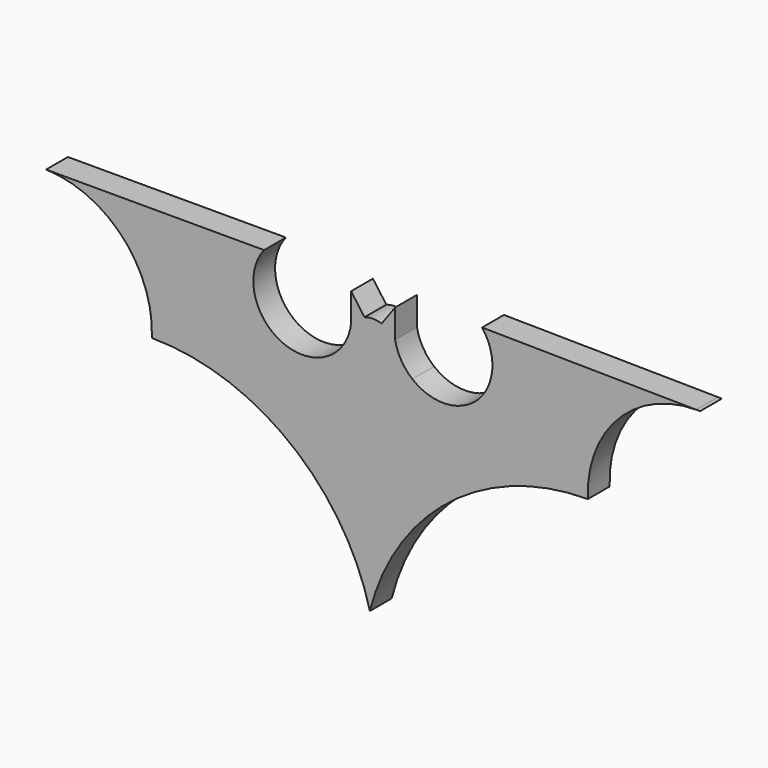
from build123d import *

# Parameters (mm, degrees)
F1_DEPTH = 6.35


with BuildPart() as f1:
    # F0 (on Front) → F1 (new body)
    with BuildSketch(Plane.XZ):
        with BuildLine():
            ThreePointArc((69.594858, 12.156528), (69.143513, 12.166349), (68.692064, 12.168146))
            Line((68.692064, 12.168146), (69.594858, 12.156528))
        make_face()
        with BuildLine():
            Line((-32.000936, 12.168452), (-82.800936, 12.168452))
            ThreePointArc((-82.800936, 12.168452), (-64.915471, 4.059617), (-58.157408, -14.378704))
            ThreePointArc((-58.157408, -14.378704), (-25.988306, -25.409758), (-7.357813, -53.860419))
            ThreePointArc((-7.357813, -53.860419), (11.273169, -25.409729), (43.442592, -14.378704))
            ThreePointArc((43.442592, -14.378704), (50.412065, 4.273605), (68.692064, 12.168146))
            Line((68.692064, 12.168146), (18.799064, 12.810207))
            ThreePointArc((18.799064, 12.810207), (17.746822, -2.370825), (2.544624, -3.052088))
            Line((2.544624, -3.052088), (-14.989253, -3.052088))
            ThreePointArc((-14.989253, -3.052088), (-30.705757, -3.501027), (-32.000936, 12.168452))
        make_face()
        with BuildLine():
            ThreePointArc((-11.728119, 3.721245), (-12.785904, 0.058803), (-14.989253, -3.052088))
            Line((-14.989253, -3.052088), (2.544624, -3.052088))
            ThreePointArc((2.544624, -3.052088), (-0.066364, -0.022448), (-1.473753, 3.721245))
            Line((-1.473753, 3.721245), (-11.728119, 3.721245))
        make_face()
        with BuildLine():
            ThreePointArc((-8.600348, 6.004528), (-10.342651, 5.107293), (-11.728119, 3.721245))
            Line((-11.728119, 3.721245), (-1.473753, 3.721245))
            ThreePointArc((-1.473753, 3.721245), (-2.859221, 5.107293), (-4.601524, 6.004528))
            ThreePointArc((-4.601524, 6.004528), (-6.600936, 6.327729), (-8.600348, 6.004528))
        make_face()
        with BuildLine():
            Line((-11.728119, 10.325245), (-11.728119, 3.721245))
            ThreePointArc((-11.728119, 3.721245), (-10.342651, 5.107293), (-8.600348, 6.004528))
            Line((-8.600348, 6.004528), (-11.728119, 10.325245))
        make_face()
        with BuildLine():
            ThreePointArc((-4.601524, 6.004528), (-2.859221, 5.107293), (-1.473753, 3.721245))
            Line((-1.473753, 3.721245), (-1.473753, 10.325245))
            Line((-1.473753, 10.325245), (-4.601524, 6.004528))
        make_face()
    extrude(amount=F1_DEPTH)


solid = f1.part
